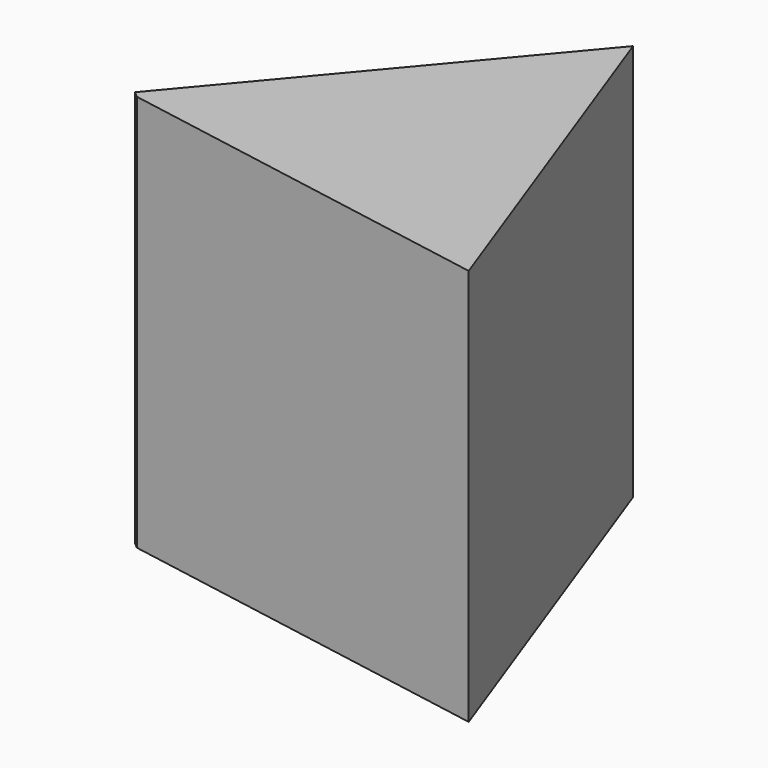
from build123d import *

# Parameters (mm, degrees)
BOX034_W               = 1
BOX034_H               = 1
BOX034_DEPTH           = 0.5
BOX034_PLACEMENT_ANGLE = 30
BOX035_W               = 1
BOX035_H               = 1
BOX035_DEPTH           = 0.5
BOX035_PLACEMENT_ANGLE = 60
BOX033_W               = 0.5
BOX033_H               = 0.5
BOX033_DEPTH           = 0.5
CUT024_PLACEMENT_ANGLE = 230


with BuildPart() as kub034:
    # Box034 → Box034 (new body)
    with BuildSketch(Plane.XY):
        with Locations((0.5, 0.5)):
            Rectangle(BOX034_W, BOX034_H)
    extrude(amount=BOX034_DEPTH)


with BuildPart() as kub034_1:
    # Box034 placement: moved
    add(kub034.part.moved(Location((0.4, 1, 2.02))).rotate(Axis((0.4, 1, 2.02), (0, 0, 1)), BOX034_PLACEMENT_ANGLE))


with BuildPart() as kub035:
    # Box035 → Box035 (new body)
    with BuildSketch(Plane.XY):
        with Locations((0.5, 0.5)):
            Rectangle(BOX035_W, BOX035_H)
    extrude(amount=BOX035_DEPTH)


with BuildPart() as kub035_1:
    # Box035 placement: moved
    add(kub035.part.moved(Location((-0.394, 1, 2.02))).rotate(Axis((-0.394, 1, 2.02), (0, 0, 1)), BOX035_PLACEMENT_ANGLE))


with BuildPart() as cut024:
    # Box033 → Box033 (new body)
    with BuildSketch(Plane(origin=(-0.25, 1.25, 2.02), x_dir=(1, 0, 0), z_dir=(0, 0, 1))):
        with Locations((0.25, 0.25)):
            Rectangle(BOX033_W, BOX033_H)
    extrude(amount=BOX033_DEPTH)

    # Cut023: cut Kub035
    add(kub035_1.part, mode=Mode.SUBTRACT)

    # Cut024: cut Kub034
    add(kub034_1.part, mode=Mode.SUBTRACT)


with BuildPart() as cut024_1:
    # Cut024 placement: moved
    add(cut024.part.rotate(Axis((0, 0, 0), (0, 0, 1)), CUT024_PLACEMENT_ANGLE))


solid = cut024_1.part
